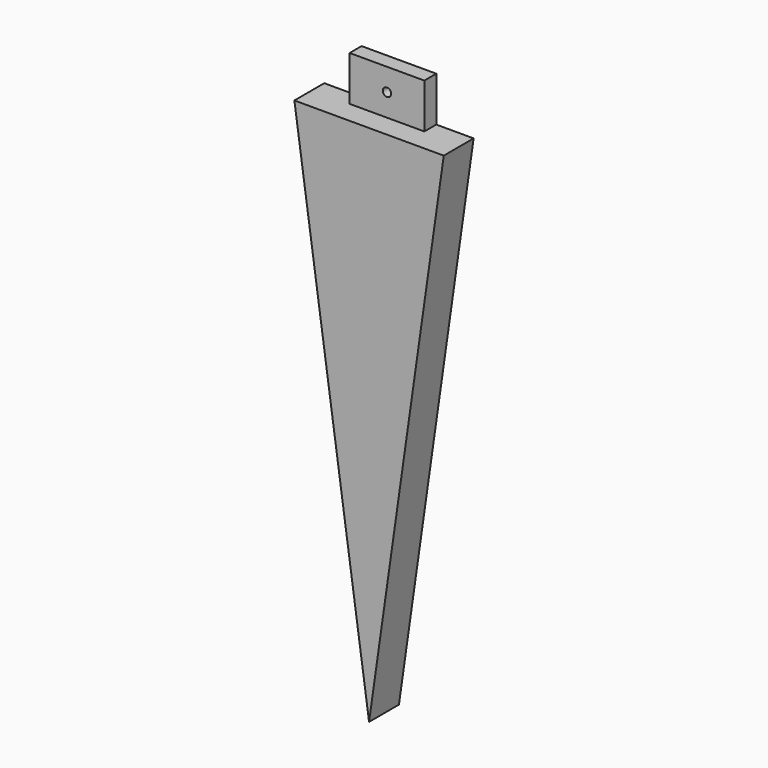
from build123d import *

# Parameters (mm, degrees)
F1_DEPTH = 12.7
F0_R     = 1.4224
F2_DEPTH = 5.08


with BuildPart() as f1:
    # F0 (on Front) → F1 (new body)
    with BuildSketch(Plane.XZ):
        Polygon((0, -124.384157), (0, 53.415843), (-12.7, 53.415843), (-25.4, 53.415843), align=None)
        Polygon((12.7, 53.415843), (0, 53.415843), (0, -124.384157), (25.4, 53.415843), align=None)
    extrude(amount=F1_DEPTH)

    # F0 (on Front) → F2 (join)
    with BuildSketch(Plane.XZ):
        Polygon((-12.7, 53.415843), (0, 53.415843), (12.7, 53.415843), (12.7, 68.655843), (-12.7, 68.655843), align=None)
        with Locations((0, 61.035843)):
            Circle(F0_R, mode=Mode.SUBTRACT)
    extrude(amount=F2_DEPTH)


solid = f1.part
